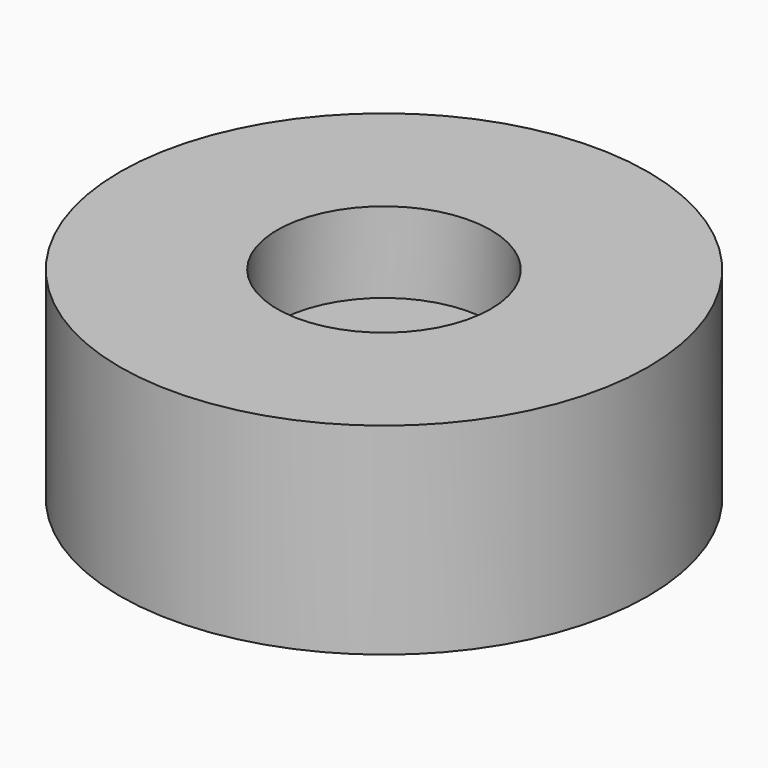
from build123d import *

# Parameters (mm, degrees)
CYLINDER017_R     = 2.65
CYLINDER017_DEPTH = 2
CYLINDER016_R     = 6.55
CYLINDER016_DEPTH = 5


with BuildPart() as cylinder017:
    # Cylinder017 → Cylinder017 (new body)
    with BuildSketch(Plane.XY.offset(3)):
        Circle(CYLINDER017_R)
    extrude(amount=CYLINDER017_DEPTH)


with BuildPart() as cut028006004005015:
    # Cylinder016 → Cylinder016 (new body)
    with BuildSketch(Plane.XY):
        Circle(CYLINDER016_R)
    extrude(amount=CYLINDER016_DEPTH)

    # Cut028006004005015: cut Cylinder017
    add(cylinder017.part, mode=Mode.SUBTRACT)


with BuildPart() as cut028006004005015_1:
    # Cut028006004005015 placement: moved
    add(cut028006004005015.part.moved(Location((22, 0, 33))))


solid = cut028006004005015_1.part
